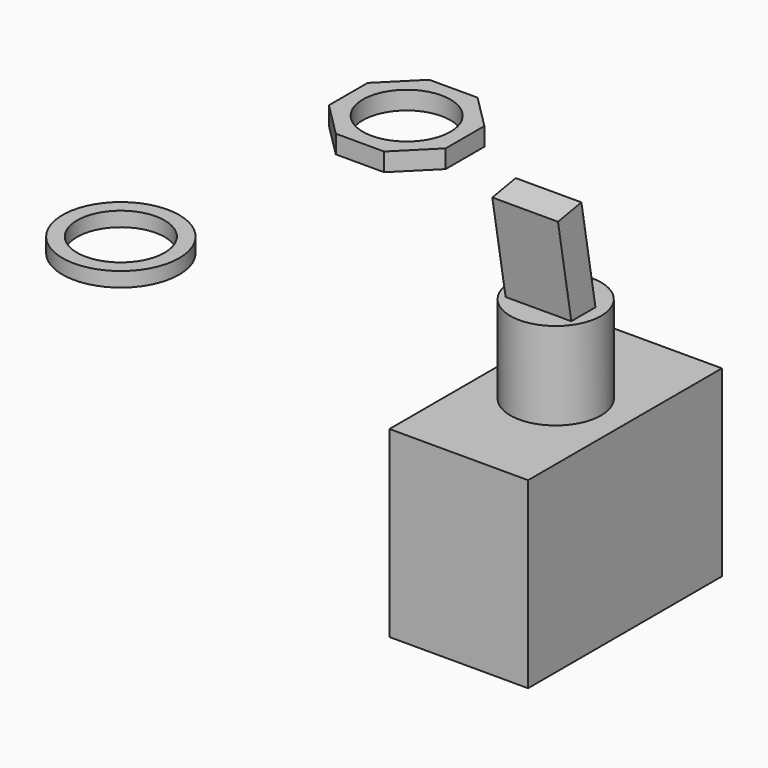
from build123d import *

# Parameters (mm, degrees)
F0_W      = 19
F0_H      = 33.2
F1_DEPTH  = 25.1
F2_R      = 6.225
F3_DEPTH  = 12
F7_W      = 9
F7_H      = 19.96655
F8_DEPTH  = 2.0375
F9_R      = 8
F9_R_2    = 6
F10_DEPTH = 2
F11_DEPTH = 2.5


with BuildPart() as f1:
    # F0 (on Top) → F1 (new body)
    with BuildSketch(Plane.XY):
        Rectangle(F0_W, F0_H)
    extrude(amount=-F1_DEPTH)

    # F2 (on Top) → F3 (join)
    with BuildSketch(Plane.XY):
        Circle(F2_R)
    extrude(amount=F3_DEPTH)

    # F7 (on face) → F8 (join, symmetric)
    with BuildSketch(Plane(origin=(0, 1.197071, 0.211076), x_dir=(-1, 0, 0), z_dir=(0, 0.984808, 0.173648))):
        with Locations((0, 15.479301)):
            Rectangle(F7_W, F7_H)
    extrude(amount=F8_DEPTH, both=True)


with BuildPart() as f10:
    # F9 (on Top) → F10 (new body)
    with BuildSketch(Plane.XY):
        with Locations((-57.400849, -2.73289)):
            Circle(F9_R)
        with Locations((-57.400849, -2.73289)):
            Circle(F9_R_2, mode=Mode.SUBTRACT)
    extrude(amount=F10_DEPTH)


with BuildPart() as f11:
    # F9 (on Top) → F11 (new body)
    with BuildSketch(Plane.XY):
        Polygon((-47.107671, 45.501473), (-53.735088, 45.501473), (-58.42138, 40.815181), (-58.42138, 34.187764), (-53.735088, 29.501473), (-47.107671, 29.501473), (-42.42138, 34.187764), (-42.42138, 40.815181), align=None)
        with Locations((-50.42138, 37.501473)):
            Circle(F9_R_2, mode=Mode.SUBTRACT)
    extrude(amount=F11_DEPTH)


solid = Compound([f1.part, f10.part, f11.part])
